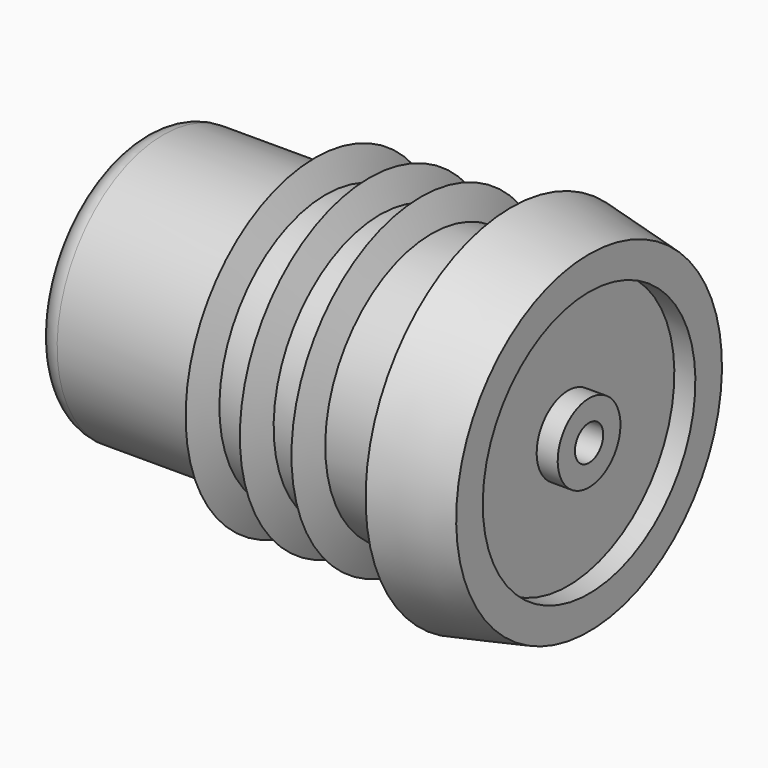
from build123d import *

# Parameters (mm, degrees)
F2_R = 1.5


with BuildPart() as f1:
    # F0 (on Front) → F1 (revolve)
    with BuildSketch(Plane.XZ):
        Polygon((-9.172741, 10.47979), (-9.804832, 8.599592), (-8.490813, 8.599592), align=None)
        Polygon((-5.833726, 10.47979), (-6.465817, 8.599592), (-5.151798, 8.599592), align=None)
        Polygon((-13.314019, 8.599592), (-24, 8.599592), (-24, 7.051038), (1.923128, 7.051038), (1.923128, 1.143372), (5.041865, 1.143372), (5.041865, 2.537624), (3.681099, 2.537624), (3.681099, 8.599592), (5.041865, 8.599592), (5.041865, 10.75), (0, 11.77545), (0, 8.599592), (-5.151798, 8.599592), (-6.465817, 8.599592), (-8.490813, 8.599592), (-9.804832, 8.599592), (-12, 8.599592), align=None)
        Polygon((-12.681928, 10.47979), (-13.314019, 8.599592), (-12, 8.599592), align=None)
    revolve(axis=Axis((-12, 0, 0), (-1, 0, 0)))

    # F2
    f2_edges = [f1.edges().sort_by_distance(p)[0] for p in [
        (-24, 0, -8.599592),
    ]]
    fillet(f2_edges, radius=F2_R)


solid = f1.part
